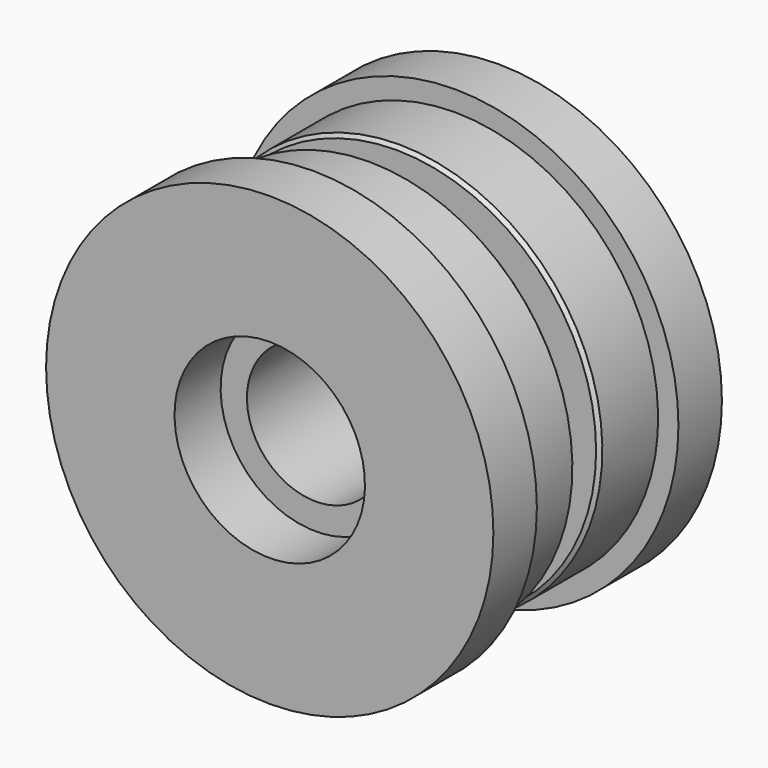
from build123d import *

# Parameters (mm, degrees)
F2_SIZE = 0.762


with BuildPart() as f1:
    # F0 (on Right) → F1 (revolve)
    with BuildSketch(Plane.YZ):
        Polygon((-18.7706, 15.1765), (0, 15.1765), (18.7706, 15.1765), (18.7706, 20.9804), (31.4706, 20.9804), (31.4706, 49.276), (19.4945, 49.276), (19.4945, 44.8056), (3.3655, 44.8056), (3.3655, 32.1056), (-3.3655, 32.1056), (-3.3655, 44.8056), (-19.4945, 44.8056), (-19.4945, 49.276), (-31.4706, 49.276), (-31.4706, 20.9804), (-18.7706, 20.9804), align=None)
    revolve(axis=Axis((0, -0.984378, 0), (0, 1, 0)))

    # F2
    f2_edges = [f1.edges().sort_by_distance(p)[0] for p in [
        (0, 3.3655, -44.8056),
        (0, -3.3655, -44.8056),
    ]]
    chamfer(f2_edges, length=F2_SIZE)


solid = f1.part
